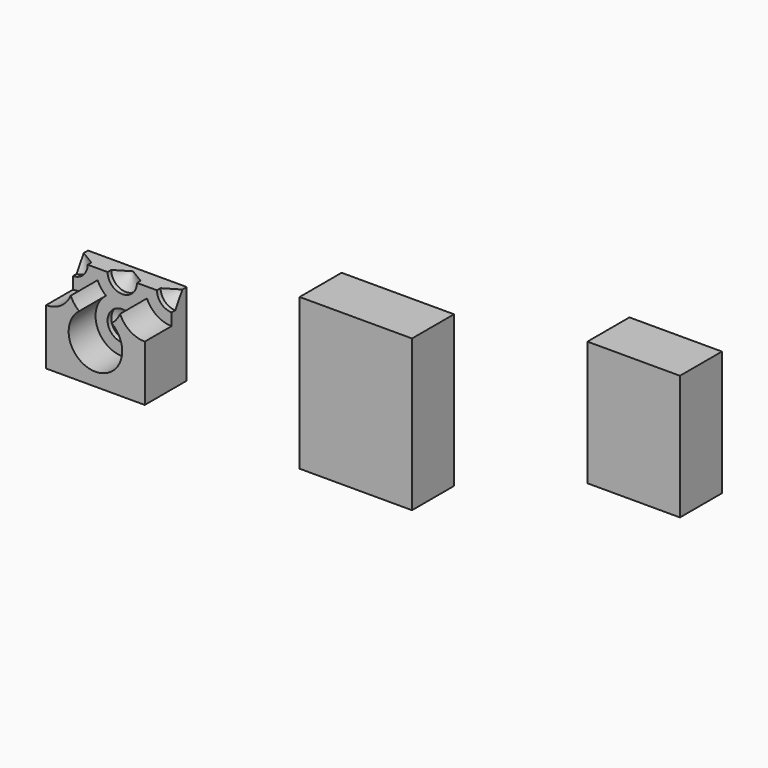
from build123d import *

# Parameters (mm, degrees)
F0_W           = 47.0071360469
F0_H           = 39.3132301979
F1_DEPTH       = 25
F0_W_2         = 53.5358963534
F0_H_2         = 72.0310099423
F0_W_3         = 44.069185853
F0_H_3         = 59.4212077558
F3_D           = 14
F3_DEPTH       = 18.192
F3_CBORE_D     = 25.5
F3_CBORE_DEPTH = 16
F3_TIP         = 4.2060243332


with BuildPart() as f1:
    # F0 (on Front) → F1 (new body)
    with BuildSketch(Plane.XZ):
        with Locations((-144.2857719958, -27.1252079401)):
            Rectangle(F0_W, F0_H)
    extrude(amount=F1_DEPTH)

    # F3
    with Locations(Plane.XZ.offset(25)):
        with Locations((-167.7893400192, -7.4685928412), (-144.2857719958, -7.4685928412), (-120.7822039723, -7.4685928412), (-144.2857719958, -27.7392920107)):
            CounterBoreHole(F3_D / 2, F3_CBORE_D / 2, F3_CBORE_DEPTH, depth=F3_DEPTH)
            with Locations((0, 0, -(F3_DEPTH + F3_TIP / 2))):  # 118° drill point
                Cone(0, F3_D / 2, F3_TIP, mode=Mode.SUBTRACT)


with BuildPart() as f1b:
    # F0 (on Front) → F1, piece 2 (new body)
    with BuildSketch(Plane.XZ):
        with Locations((-20.2391804196, -13.5138500482)):
            Rectangle(F0_W_2, F0_H_2)
    extrude(amount=F1_DEPTH)


with BuildPart() as f1c:
    # F0 (on Front) → F1, piece 3 (new body)
    with BuildSketch(Plane.XZ):
        with Locations((112.131588161, 18.6591874808)):
            Rectangle(F0_W_3, F0_H_3)
    extrude(amount=F1_DEPTH)


solid = Compound([f1.part, f1b.part, f1c.part])
